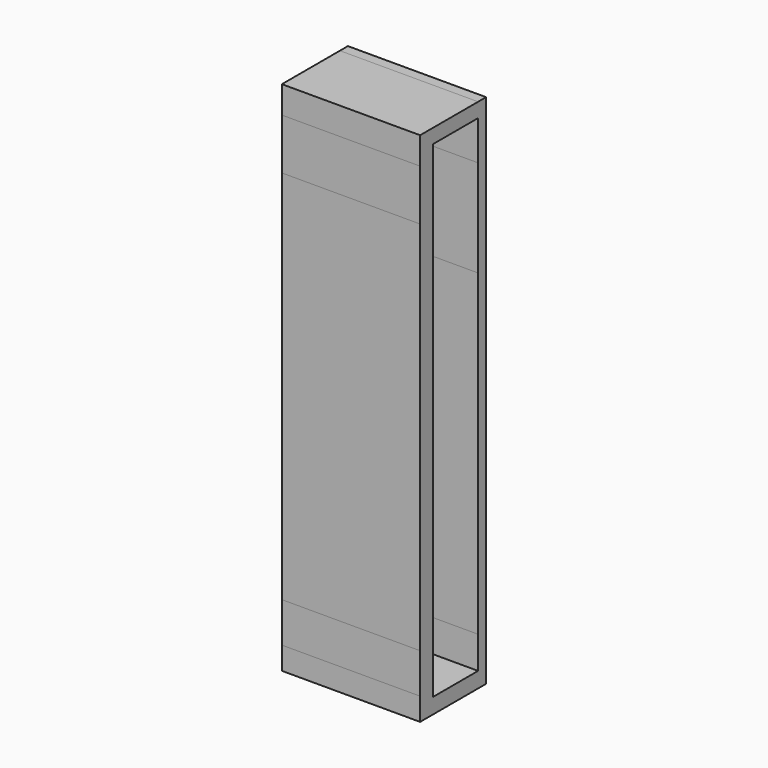
from build123d import *

# Parameters (mm, degrees)
F0_W     = 6.3818898052
F0_H     = 2.6405826211
F0_W_2   = 4.0351254866
F0_W_3   = 1.8363967538
F0_H_2   = 9.3658650294
F0_W_4   = 2.9039648362
F0_H_3   = 4.8469491303
F0_H_4   = 8.4472823073
F0_H_5   = 4.5126788318
F0_H_6   = 9.1429433669
F0_H_7   = 4.6798149124
F0_H_8   = 10.1367384195
F0_H_9   = 5.1812240854
F0_H_10  = 8.6460430175
F0_H_11  = 4.4464562088
F0_H_12  = 12.1996160597
F0_H_13  = 5.0803082995
F0_H_14  = 8.9819207788
F0_H_15  = 4.6798144467
F0_H_16  = 9.3364678323
F0_H_17  = 4.3455418199
F0_H_18  = 4.8469509929
F0_H_19  = 2.8413161635
F0_H_20  = 3.6769974977
F0_H_21  = 4.6798158437
F0_H_22  = 3.1755901873
F0_H_23  = 4.3455399573
F0_H_24  = 4.178404808
F0_H_25  = 4.1784085333
F0_H_26  = 4.6798139811
F1_DEPTH = 25.4


with BuildPart() as f1:
    # F0 (on Right) → F1 (new body)
    with BuildSketch(Plane.YZ):
        with Locations((17.5134306774, 27.3478608578)):
            Rectangle(F0_W, F0_H)
        with Locations((12.3049230315, 27.3478608578)):
            Rectangle(F0_W_2, F0_H)
        Polygon((22.5407723337, 28.6681521684), (20.70437558, 28.6681521684), (20.70437558, 26.0275695473), (20.70437558, 18.784256652), (22.5407723337, 18.784256652), align=None)
        Polygon((10.2873602882, 26.0275695473), (10.2873602882, 28.6681521684), (7.3833954521, 28.6681521684), (7.3833954521, 23.6671231687), (10.2873602882, 23.6671231687), align=None)
        with Locations((21.6225739568, 14.1013241373)):
            Rectangle(F0_W_3, F0_H_2)
        with Locations((8.8353778701, 21.2436486036)):
            Rectangle(F0_W_4, F0_H_3)
        with Locations((21.6225739568, 5.1947504689)):
            Rectangle(F0_W_3, F0_H_4)
        with Locations((8.8353778701, 16.5638346225)):
            Rectangle(F0_W_4, F0_H_5)
        with Locations((21.6225739568, -3.6003623682)):
            Rectangle(F0_W_3, F0_H_6)
        with Locations((8.8353778701, 11.9675877504)):
            Rectangle(F0_W_4, F0_H_7)
        with Locations((21.6225739568, -13.2402032614)):
            Rectangle(F0_W_3, F0_H_8)
        with Locations((8.8353778701, 7.0370682515)):
            Rectangle(F0_W_4, F0_H_9)
        with Locations((21.6225739568, -22.6315939799)):
            Rectangle(F0_W_3, F0_H_10)
        with Locations((8.8353778701, 2.2232281044)):
            Rectangle(F0_W_4, F0_H_11)
        with Locations((21.6225739568, -33.0544235185)):
            Rectangle(F0_W_3, F0_H_12)
        with Locations((8.8353778701, -2.5401541498)):
            Rectangle(F0_W_4, F0_H_13)
        with Locations((21.6225739568, -43.6451919377)):
            Rectangle(F0_W_3, F0_H_14)
        with Locations((8.8353778701, -7.4202155229)):
            Rectangle(F0_W_4, F0_H_15)
        with Locations((21.6225739568, -52.8043862432)):
            Rectangle(F0_W_3, F0_H_16)
        with Locations((8.8353778701, -11.9328936562)):
            Rectangle(F0_W_4, F0_H_17)
        Polygon((22.5407723337, -57.4726201594), (20.70437558, -57.4726201594), (20.70437558, -63.3971318603), (20.70437558, -66.2384480238), (22.5407723337, -66.2384480238), align=None)
        with Locations((8.8353778701, -16.5291400626)):
            Rectangle(F0_W_4, F0_H_18)
        with Locations((17.5134306774, -64.817789942)):
            Rectangle(F0_W, F0_H_19)
        with Locations((8.8353778701, -20.7911143079)):
            Rectangle(F0_W_4, F0_H_20)
        with Locations((12.3049230315, -64.817789942)):
            Rectangle(F0_W_2, F0_H_19)
        with Locations((8.8353778701, -25.0530876219)):
            Rectangle(F0_W_4, F0_H_3)
        Polygon((10.2873602882, -66.2384480238), (10.2873602882, -63.3971318603), (10.2873602882, -62.0737634599), (7.3833954521, -62.0737634599), (7.3833954521, -66.2384480238), align=None)
        with Locations((8.8353778701, -29.8164701089)):
            Rectangle(F0_W_4, F0_H_21)
        with Locations((8.8353778701, -60.4859683663)):
            Rectangle(F0_W_4, F0_H_22)
        with Locations((8.8353778701, -34.3291480094)):
            Rectangle(F0_W_4, F0_H_23)
        with Locations((8.8353778701, -56.8089708686)):
            Rectangle(F0_W_4, F0_H_24)
        with Locations((8.8353778701, -38.5911222547)):
            Rectangle(F0_W_4, F0_H_25)
        with Locations((8.8353778701, -52.2962938994)):
            Rectangle(F0_W_4, F0_H_3)
        with Locations((8.8353778701, -43.0202335119)):
            Rectangle(F0_W_4, F0_H_26)
        with Locations((8.8353778701, -47.6164799184)):
            Rectangle(F0_W_4, F0_H_5)
    extrude(amount=F1_DEPTH)


solid = f1.part
